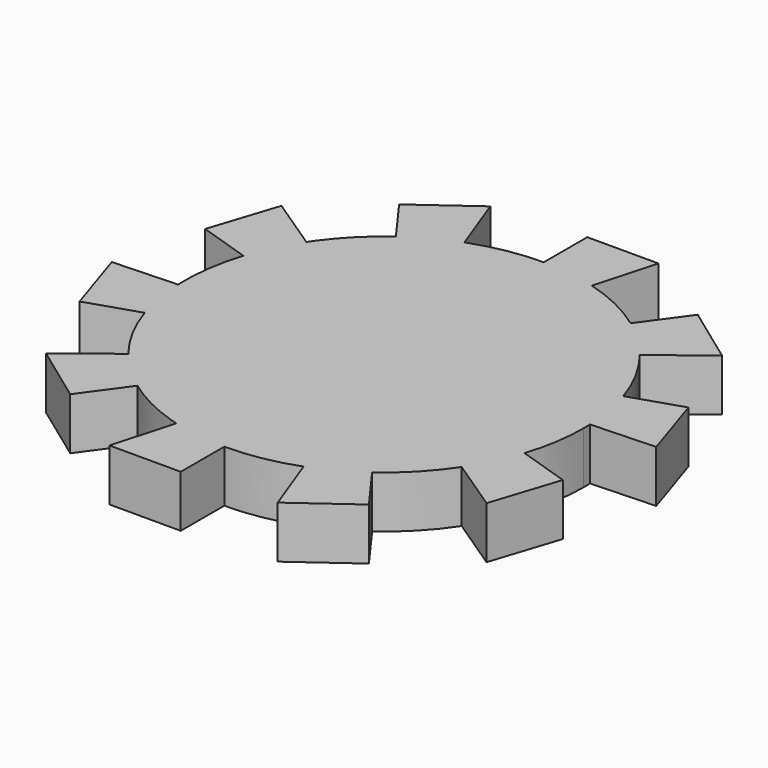
from build123d import *

# Parameters (mm, degrees)
F1_DEPTH = 2
F2_COUNT = 10


with BuildPart() as f1:
    # F0 (on Top) → F1 (new body)
    with BuildSketch(Plane.XY):
        with BuildLine():
            ThreePointArc((0, 7.6807912749), (-5.4311395954, -5.4311395954), (7.6807912749, 0))
            ThreePointArc((7.6807912749, 0), (6.1208653438, 4.6399959108), (2.0747120882, 7.3952771659))
            Line((2.0747120882, 7.3952771659), (0, 0))
            Line((0, 0), (0, 7.6807912749))
        make_face()
        with BuildLine():
            Line((0, 0), (2.0747120882, 7.3952771659))
            ThreePointArc((2.0747120882, 7.3952771659), (1.0471328182, 7.6090779645), (0, 7.6807912749))
            Line((0, 7.6807912749), (0, 0))
        make_face()
        with BuildLine():
            ThreePointArc((0, 7.6807912749), (1.0471328182, 7.6090779645), (2.0747120882, 7.3952771659))
            Line((2.0747120882, 7.3952771659), (2.7417573147, 9.7729489207))
            Line((2.7417573147, 9.7729489207), (0, 9.7729489207))
            Line((0, 9.7729489207), (0, 7.6807912749))
        make_face()
    extrude(amount=F1_DEPTH)

    # F2: F1 ×10 about axis
    f2_axis = Axis((0, 0, 0), (0, 0, -1))


with BuildPart() as f1_1:
    add(f1.part)
    for i in range(1, F2_COUNT):
        add(f1.part.rotate(f2_axis, i * 360 / F2_COUNT))


solid = f1_1.part
